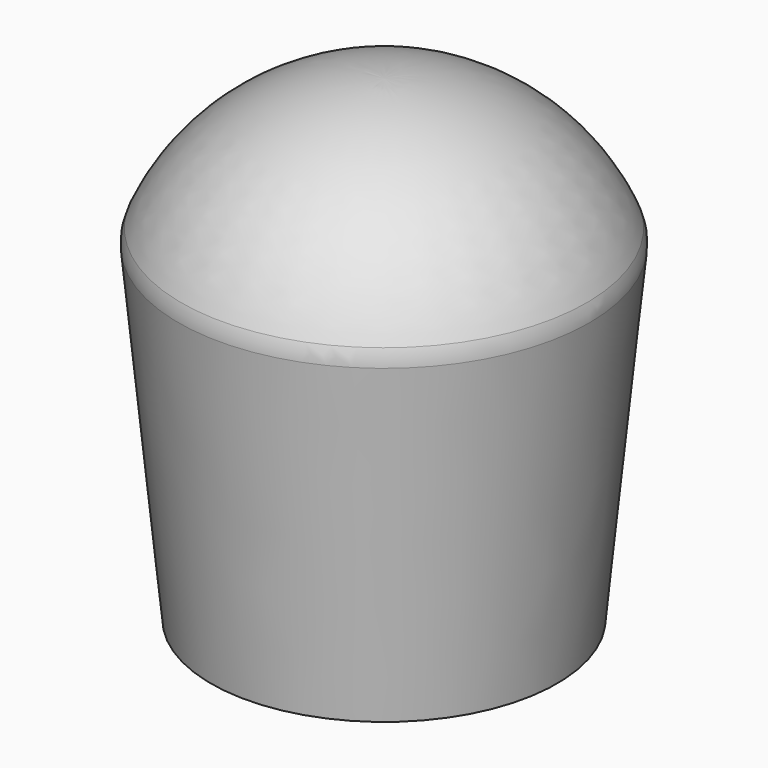
from build123d import *

# Parameters (mm, degrees)
F2_R = 5


with BuildPart() as f1:
    # F0 (on Front) → F1 (revolve)
    with BuildSketch(Plane.XZ):
        with BuildLine():
            Line((-31, 50.574), (0, 50.574))
            Line((0, 50.574), (0, 71.621))
            ThreePointArc((0, 71.621), (-18.746466, 65.8792), (-31, 50.574))
        make_face()
        Polygon((-26, 0), (0, 0), (0, 50.574), (-31, 50.574), align=None)
    revolve(axis=Axis((0, 0, 35.8105), (0, 0, 1)))

    # F2
    f2_edges = [f1.edges().sort_by_distance(p)[0] for p in [
        (31, 0, 50.574),
    ]]
    fillet(f2_edges, radius=F2_R)


solid = f1.part
